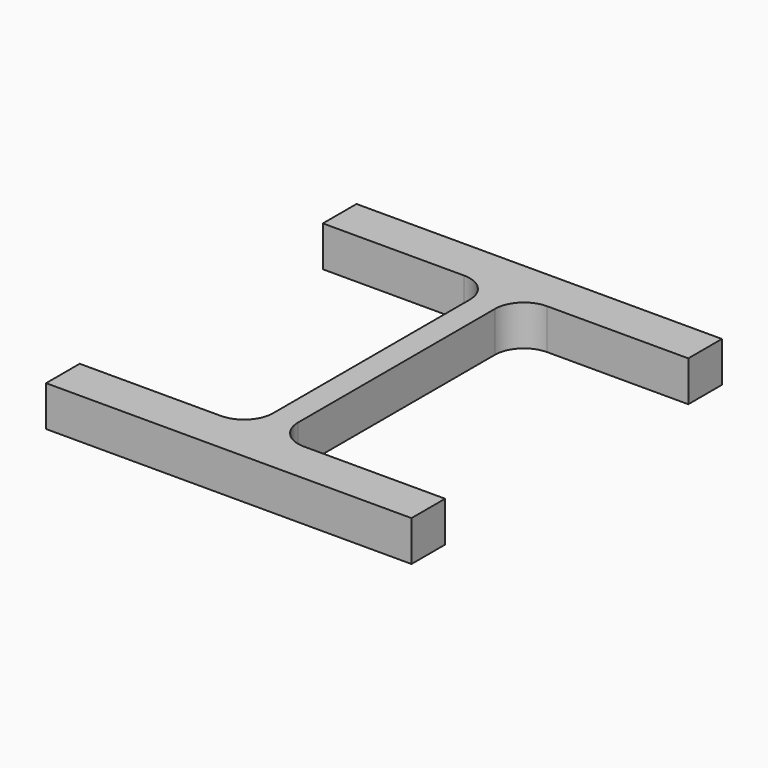
from build123d import *

# Parameters (mm, degrees)
F1_DEPTH = 25


with BuildPart() as f1:
    # F0 (on Top) → F1 (new body)
    with BuildSketch(Plane.XY):
        with BuildLine():
            Line((-121.545699, 169.061886), (-121.545699, 143.061886))
            Line((-121.545699, 143.061886), (-34.295699, 143.061886))
            ThreePointArc((-34.295699, 143.061886), (-21.567777, 137.789808), (-16.295699, 125.061886))
            Line((-16.295699, 125.061886), (-16.295699, -26.938114))
            ThreePointArc((-16.295699, -26.938114), (-21.567777, -39.666036), (-34.295699, -44.938114))
            Line((-34.295699, -44.938114), (-121.545699, -44.938114))
            Line((-121.545699, -44.938114), (-121.545699, -70.938114))
            Line((-121.545699, -70.938114), (104.454301, -70.938114))
            Line((104.454301, -70.938114), (104.454301, -44.938114))
            Line((104.454301, -44.938114), (17.204301, -44.938114))
            ThreePointArc((17.204301, -44.938114), (4.476379, -39.666036), (-0.795699, -26.938114))
            Line((-0.795699, -26.938114), (-0.795699, 125.061886))
            ThreePointArc((-0.795699, 125.061886), (4.476379, 137.789808), (17.204301, 143.061886))
            Line((17.204301, 143.061886), (104.454301, 143.061886))
            Line((104.454301, 143.061886), (104.454301, 169.061886))
            Line((104.454301, 169.061886), (-121.545699, 169.061886))
        make_face()
    extrude(amount=F1_DEPTH)


solid = f1.part
